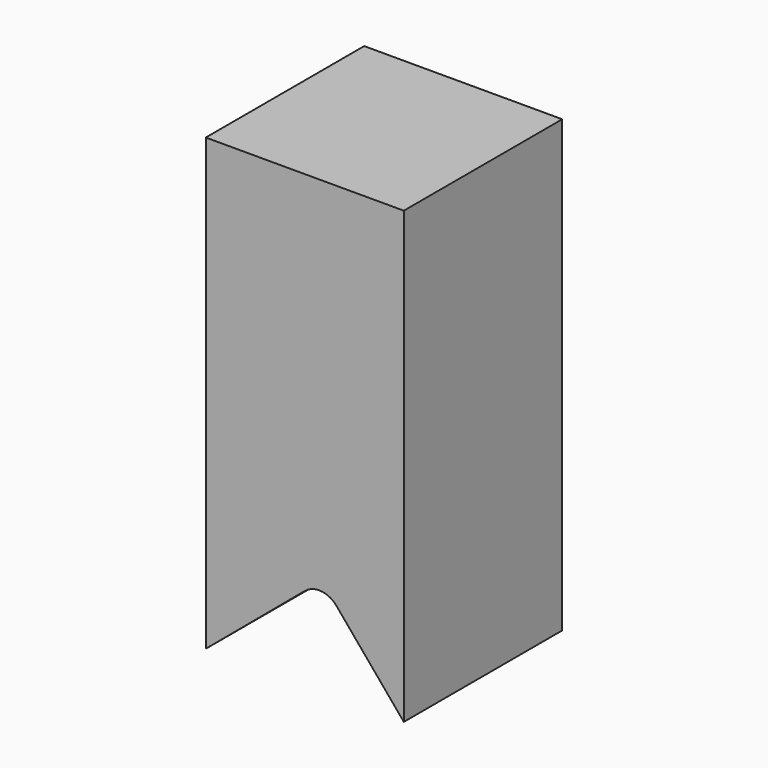
from build123d import *

# Parameters (mm, degrees)
F0_W     = 44
F0_H     = 44
F1_DEPTH = 100
F3_DEPTH = 44.001
F4_R     = 5


with BuildPart() as f1:
    # F0 (on Top) → F1 (new body)
    with BuildSketch(Plane.XY):
        Rectangle(F0_W, F0_H)
    extrude(amount=F1_DEPTH)

    # F2 (on face) → F3 (cut, through all)
    with BuildSketch(Plane.XZ.offset(22)):
        Polygon((3.82026, 21.665771), (-22, 0), (22, 0), align=None)
    extrude(amount=-F3_DEPTH, mode=Mode.SUBTRACT)

    # F4
    f4_edges = [f1.edges().sort_by_distance(p)[0] for p in [
        (3.82026, 0, 21.665771),
    ]]
    fillet(f4_edges, radius=F4_R)


solid = f1.part
